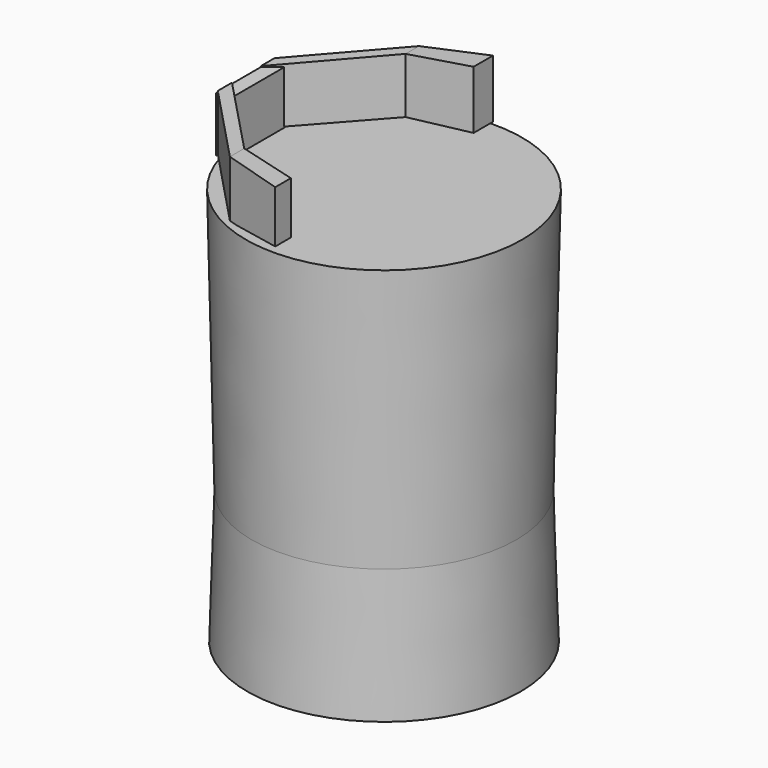
from build123d import *

# Parameters (mm, degrees)
F10_R      = 51.6766678949
F9_R       = 49.5177054899
F14_R      = 51.0900787087
F11_FACE_R = 49.5177054899
F17_W      = 28.0700735748
F17_H      = 20.5879807472
F20_W      = 25.325415656
F20_H      = 19.9093073606
F23_W      = 6.3016116619
F23_H      = 20.8089984953
F22_W      = 6.4192367718
F22_H      = 20.5292478204
F22_W_2    = 6.6290111281
F22_H_2    = 20.7466594875
F23_W_2    = 6.6997222602
F23_H_2    = 21.3462822139
F26_W      = 7.3063448071
F26_H      = 19.5261649787
F28_W      = 9.0555027127
F28_H      = 21.7844322324


with BuildPart() as f11:
    # F10 (on face) → F11 section 0
    with BuildSketch(Plane.XY.offset(50.2420156263)):
        Circle(F10_R)
    # F9 (on face) → F11 section 1
    with BuildSketch(Plane.XY.offset(-49.2490320466)):
        Circle(F9_R)
    loft()

    # F14 (on offset) → F15 section 0
    with BuildSketch(Plane.XY.offset(-98.71355223)):
        Circle(F14_R)
    # F11_face (on face) → F15 section 1
    with BuildSketch(Plane(origin=(0, 0, -49.2490320466), x_dir=(1, 0, 0), z_dir=(0, 0, -1))):
        Circle(F11_FACE_R)
    loft()

    # F17 (on offset) → F21 section 0
    with BuildSketch(Plane.YZ.offset(-51.4408089221)):
        with Locations((-0.1785028726, 60.4957193136)):
            Rectangle(F17_W, F17_H)
    # F20 (on offset) → F21 section 1
    with BuildSketch(Plane.YZ.offset(-46.7405449599)):
        with Locations((-0.1616971567, 60.256190598)):
            Rectangle(F20_W, F20_H)
    loft()

    # F23 (on offset) → F24 section 0
    with BuildSketch(Plane.YZ.offset(-22.4701166153)):
        with Locations((41.3124375045, 61.3829698414)):
            Rectangle(F23_W, F23_H)
    # F22 (on offset) → F24 section 1
    with BuildSketch(Plane.YZ.offset(-51.4408089221)):
        with Locations((9.9052698351, 60.8711652458)):
            Rectangle(F22_W, F22_H)
    loft()

    # F22 (on offset) → F25 section 0
    with BuildSketch(Plane.YZ.offset(-51.4408089221)):
        with Locations((-10.0758362096, 60.7760790735)):
            Rectangle(F22_W_2, F22_H_2)
    # F23 (on offset) → F25 section 1
    with BuildSketch(Plane.YZ.offset(-22.4701166153)):
        with Locations((-40.5898671597, 60.6302414089)):
            Rectangle(F23_W_2, F23_H_2)
    loft()

    # F23 (on offset) → F27 section 0
    with BuildSketch(Plane.YZ.offset(-22.4701166153)):
        with Locations((-40.5898671597, 60.6302414089)):
            Rectangle(F23_W_2, F23_H_2)
    # F26 (on Right) → F27 section 1
    with BuildSketch(Plane.YZ):
        with Locations((-47.1889227629, 61.6251770407)):
            Rectangle(F26_W, F26_H)
    loft()

    # F28 (on Right) → F29 section 0
    with BuildSketch(Plane.YZ):
        with Locations((46.41026631, 62.4425597489)):
            Rectangle(F28_W, F28_H)
    # F23 (on offset) → F29 section 1
    with BuildSketch(Plane.YZ.offset(-22.4701166153)):
        with Locations((41.3124375045, 61.3829698414)):
            Rectangle(F23_W, F23_H)
    loft()


solid = f11.part
